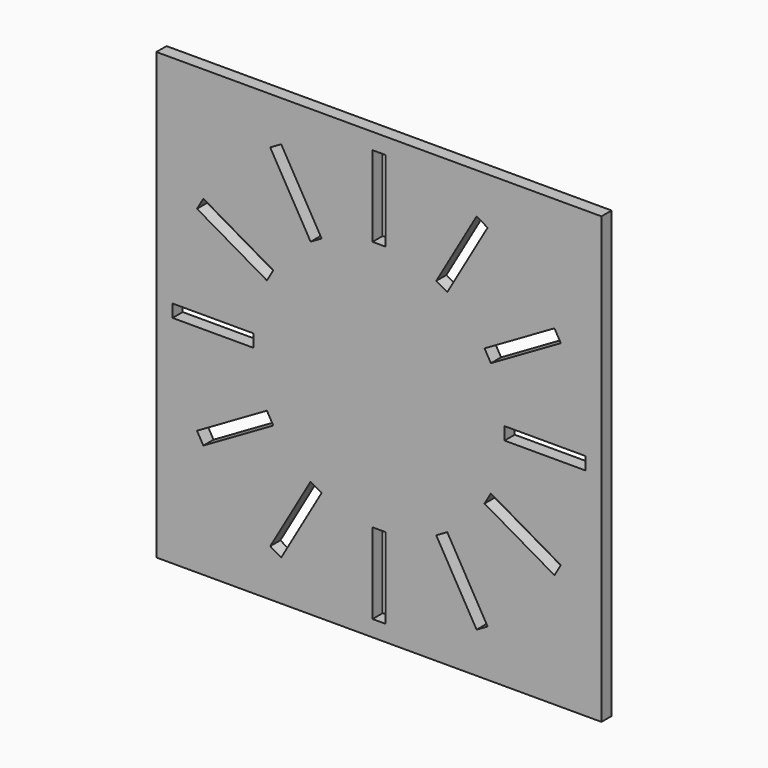
from build123d import *

# Parameters (mm, degrees)
F0_W     = 70
F0_H     = 70
F1_DEPTH = 1
F2_W     = 2
F2_H     = 12.7
F2_W_2   = 12.7
F2_H_2   = 2
F3_DEPTH = 2.001


with BuildPart() as f1:
    # F0 (on Front) → F1 (new body, symmetric)
    with BuildSketch(Plane.XZ):
        Rectangle(F0_W, F0_H)
    extrude(amount=F1_DEPTH, both=True)

    # F2 (on face) → F3 (cut, through all)
    with BuildSketch(Plane.XZ.offset(1)):
        with Locations((0, 26.11)):
            Rectangle(F2_W, F2_H)
        Polygon((-9.013975, 17.612662), (-15.363975, 28.611185), (-17.096025, 27.611185), (-10.746025, 16.612662), align=None)
        Polygon((-16.612662, 10.746025), (-27.611185, 17.096025), (-28.611185, 15.363975), (-17.612662, 9.013975), align=None)
        with Locations((-26.11, 0)):
            Rectangle(F2_W_2, F2_H_2)
        Polygon((-17.612662, -9.013975), (-28.611185, -15.363975), (-27.611185, -17.096025), (-16.612662, -10.746025), align=None)
        Polygon((-10.746025, -16.612662), (-17.096025, -27.611185), (-15.363975, -28.611185), (-9.013975, -17.612662), align=None)
        with Locations((0, -26.11)):
            Rectangle(F2_W, F2_H)
        Polygon((9.013975, -17.612662), (15.363975, -28.611185), (17.096025, -27.611185), (10.746025, -16.612662), align=None)
        Polygon((16.612662, -10.746025), (27.611185, -17.096025), (28.611185, -15.363975), (17.612662, -9.013975), align=None)
        with Locations((26.11, 0)):
            Rectangle(F2_W_2, F2_H_2)
        Polygon((17.612662, 9.013975), (28.611185, 15.363975), (27.611185, 17.096025), (16.612662, 10.746025), align=None)
        Polygon((10.746025, 16.612662), (17.096025, 27.611185), (15.363975, 28.611185), (9.013975, 17.612662), align=None)
    extrude(amount=-F3_DEPTH, mode=Mode.SUBTRACT)


solid = f1.part
